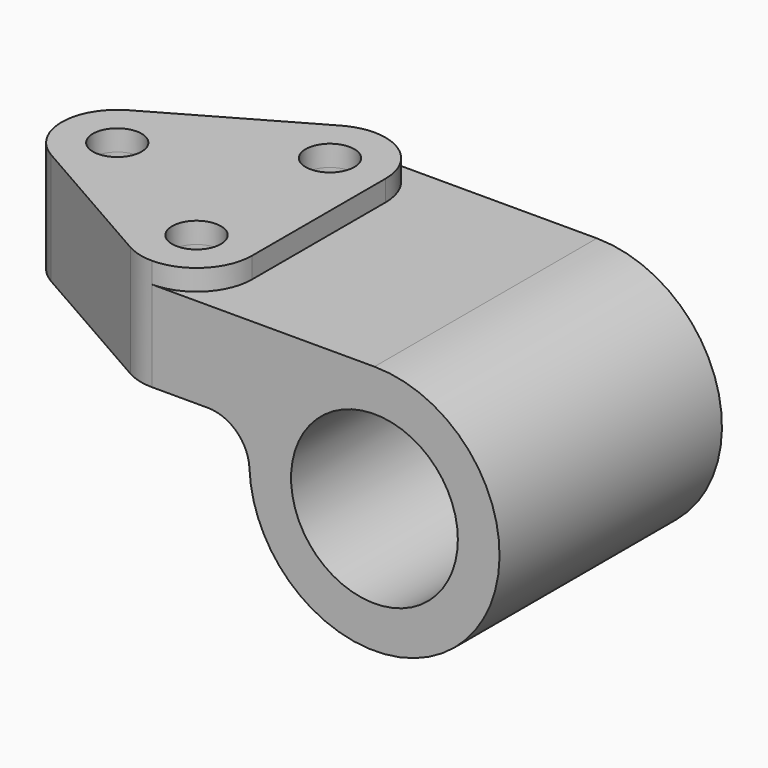
from build123d import *

# Parameters (mm, degrees)
F0_R     = 19.05
F1_DEPTH = 31.75
F2_DEPTH = 4.7625
F4_DEPTH = 20.6502
F3_R     = 5.5626
F5_DEPTH = 57.151
F6_DEPTH = 4.7752


with BuildPart() as f1:
    # F0 (on Front) → F1 (new body, symmetric)
    with BuildSketch(Plane.XZ):
        with BuildLine():
            ThreePointArc((-38.066381, 7.9248), (-31.474145, 5.274976), (-28.549786, -1.20015))
            ThreePointArc((-28.549786, -1.20015), (-24.499944, -14.706575), (-14.48438, -24.631958))
            ThreePointArc((-14.48438, -24.631958), (27.571623, -7.505745), (0, 28.575))
            Line((0, 28.575), (-96.8502, 28.575))
            Line((-96.8502, 28.575), (-96.8502, 7.9248))
            Line((-96.8502, 7.9248), (-69.85, 7.9248))
            Line((-69.85, 7.9248), (-38.066381, 7.9248))
        make_face()
        Circle(F0_R, mode=Mode.SUBTRACT)
    extrude(amount=F1_DEPTH, both=True)

    # F0 (on Front) → F2 (join, symmetric)
    with BuildSketch(Plane.XZ):
        with BuildLine():
            ThreePointArc((-14.48438, -24.631958), (-24.499944, -14.706575), (-28.549786, -1.20015))
            ThreePointArc((-28.549786, -1.20015), (-31.474145, 5.274976), (-38.066381, 7.9248))
            Line((-38.066381, 7.9248), (-69.85, 7.9248))
            Line((-69.85, 7.9248), (-14.48438, -24.631958))
        make_face()
    extrude(amount=F2_DEPTH, both=True)

    # F3 (on face) → F4 (cut, through all)
    with BuildSketch(Plane.XY.offset(28.575)):
        with BuildLine():
            ThreePointArc((-50.8, -31.75), (-54.058676, -31.324813), (-57.099155, -30.077721))
            Line((-57.099155, -30.077721), (-90.449355, -11.027721))
            ThreePointArc((-90.449355, -11.027721), (-95.134035, -6.375372), (-96.8502, 0))
            Line((-96.8502, 0), (-96.8502, -31.75))
            Line((-96.8502, -31.75), (-50.8, -31.75))
        make_face()
        with BuildLine():
            Line((-96.8502, 31.75), (-96.8502, 0))
            ThreePointArc((-96.8502, 0), (-95.134035, 6.375372), (-90.449355, 11.027721))
            Line((-90.449355, 11.027721), (-57.099155, 30.077721))
            ThreePointArc((-57.099155, 30.077721), (-54.058676, 31.324813), (-50.8, 31.75))
            Line((-50.8, 31.75), (-96.8502, 31.75))
        make_face()
    extrude(amount=-F4_DEPTH, mode=Mode.SUBTRACT)

    # F3 (on face) → F5 (cut, through all)
    with BuildSketch(Plane.XY.offset(28.575)):
        with Locations((-84.1502, 0)):
            Circle(F3_R)
        with Locations((-50.8, -19.05)):
            Circle(F3_R)
        with Locations((-50.8, 19.05)):
            Circle(F3_R)
    extrude(amount=-F5_DEPTH, mode=Mode.SUBTRACT)

    # F3 (on face) → F6 (join)
    with BuildSketch(Plane.XY.offset(28.575)):
        with BuildLine():
            Line((-90.449355, -11.027721), (-57.099155, -30.077721))
            ThreePointArc((-57.099155, -30.077721), (-54.058676, -31.324813), (-50.8, -31.75))
            ThreePointArc((-50.8, -31.75), (-41.819744, -28.030256), (-38.1, -19.05))
            Line((-38.1, -19.05), (-38.1, 19.05))
            ThreePointArc((-38.1, 19.05), (-41.819744, 28.030256), (-50.8, 31.75))
            ThreePointArc((-50.8, 31.75), (-54.058676, 31.324813), (-57.099155, 30.077721))
            Line((-57.099155, 30.077721), (-90.449355, 11.027721))
            ThreePointArc((-90.449355, 11.027721), (-95.134035, 6.375372), (-96.8502, 0))
            ThreePointArc((-96.8502, 0), (-95.134035, -6.375372), (-90.449355, -11.027721))
        make_face()
        with Locations((-50.8, -19.05)):
            Circle(F3_R, mode=Mode.SUBTRACT)
        with Locations((-84.1502, 0)):
            Circle(F3_R, mode=Mode.SUBTRACT)
        with Locations((-50.8, 19.05)):
            Circle(F3_R, mode=Mode.SUBTRACT)
    extrude(amount=F6_DEPTH)


solid = f1.part
